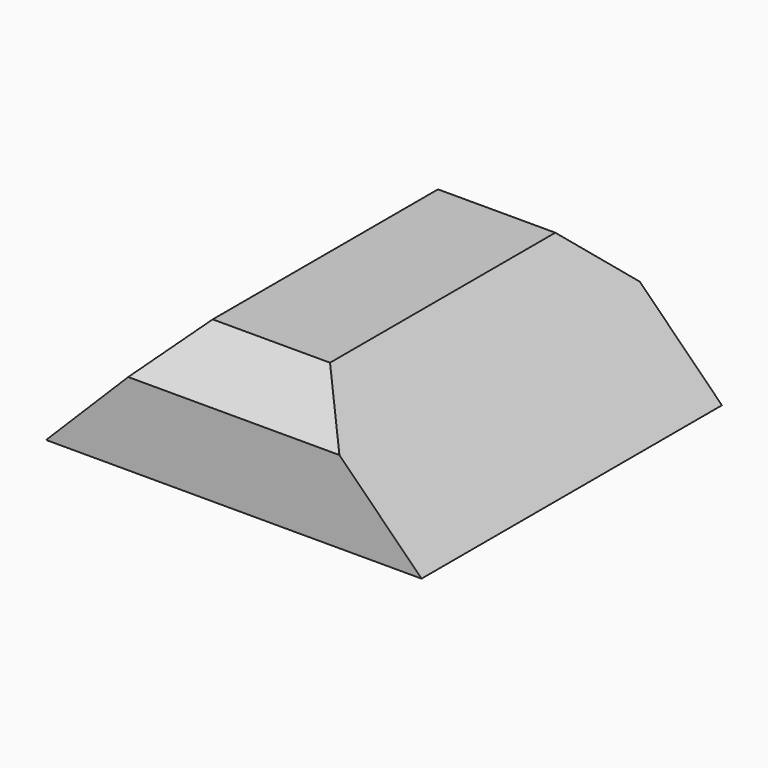
from build123d import *

# Parameters (mm, degrees)
EXTRUDE_DEPTH   = 8
CHAMFER_SIZE    = 1
CHAMFER001_SIZE = 1


with BuildPart() as part:
    # Sketch → Extrude (new body)
    with BuildSketch(Plane.XZ):
        Polygon((-1.25, 10), (1.25, 10), (4, 7.25), (-4, 7.25), align=None)
    extrude(amount=EXTRUDE_DEPTH)

    # Chamfer
    chamfer_edges = [part.edges().sort_by_distance(p)[0] for p in [
        (0, 0, 10),
    ]]
    chamfer(chamfer_edges, length=CHAMFER_SIZE)

    # Chamfer001
    chamfer001_edges = [part.edges().sort_by_distance(p)[0] for p in [
        (0, -8, 10),
    ]]
    chamfer(chamfer001_edges, length=CHAMFER001_SIZE)


solid = part.part
